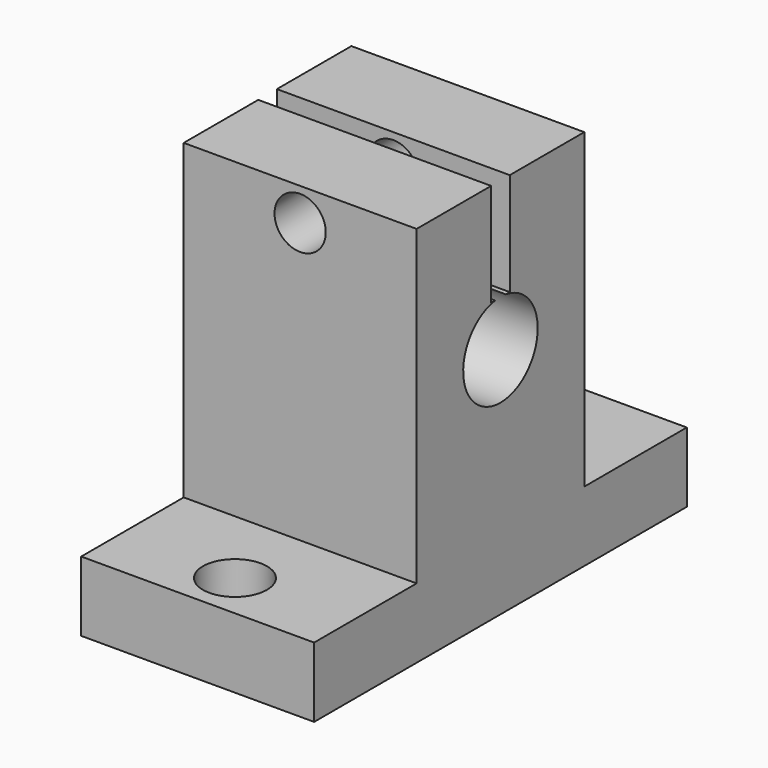
from build123d import *

# Parameters (mm, degrees)
SKETCH008_W              = 40
SKETCH008_H              = 20
SKETCH008_R              = 2.75
PAD005_DEPTH             = 6
SKETCH009_W              = 18
SKETCH009_H              = 20
PAD006_DEPTH             = 26.8
SKETCH010_R              = 4
POCKET001_DEPTH          = 20.001
SKETCH011_W              = 2
SKETCH011_H              = 8.8415096984
POCKET002_DEPTH          = 20.001
SKETCH012_R              = 2.2
POCKET003_DEPTH          = 29.001
CLONE011_PLACEMENT_ANGLE = 90


with BuildPart() as part:
    # Sketch008 → Pad005 (new body)
    with BuildSketch(Plane.XY):
        Rectangle(SKETCH008_W, SKETCH008_H)
        with Locations((-16, 0)):
            Circle(SKETCH008_R, mode=Mode.SUBTRACT)
        with Locations((16, 0)):
            Circle(SKETCH008_R, mode=Mode.SUBTRACT)
    extrude(amount=PAD005_DEPTH)

    # Sketch009 (on Face8 of Pad005) → Pad006 (join)
    with BuildSketch(Plane.XY.offset(6)):
        Rectangle(SKETCH009_W, SKETCH009_H)
    extrude(amount=PAD006_DEPTH)

    # Sketch010 (on Face14 of Pad006) → Pocket001 (cut, through all)
    with BuildSketch(Plane.XZ.offset(10)):
        with Locations((0, 20)):
            Circle(SKETCH010_R)
    extrude(amount=-POCKET001_DEPTH, mode=Mode.SUBTRACT)

    # Sketch011 (on Face15 of Pocket001) → Pocket002 (cut, through all)
    with BuildSketch(Plane.XZ.offset(10)):
        with Locations((0, 28.3792451508)):
            Rectangle(SKETCH011_W, SKETCH011_H)
    extrude(amount=-POCKET002_DEPTH, mode=Mode.SUBTRACT)

    # Sketch012 (on Face12 of Pocket002) → Pocket003 (cut, through all)
    with BuildSketch(Plane.YZ.offset(9)):
        with Locations((0, 30)):
            Circle(SKETCH012_R)
    extrude(amount=-POCKET003_DEPTH, mode=Mode.SUBTRACT)


with BuildPart() as part_1:
    # Clone011 placement: moved
    add(part.part.moved(Location((10, -100, 10))).rotate(Axis((10, -100, 10), (0, 0, 1)), CLONE011_PLACEMENT_ANGLE))


with BuildPart() as part_2:
    # Clone022 placement: moved
    add(part_1.part.moved(Location((0, -200, 0))))


solid = part_2.part
